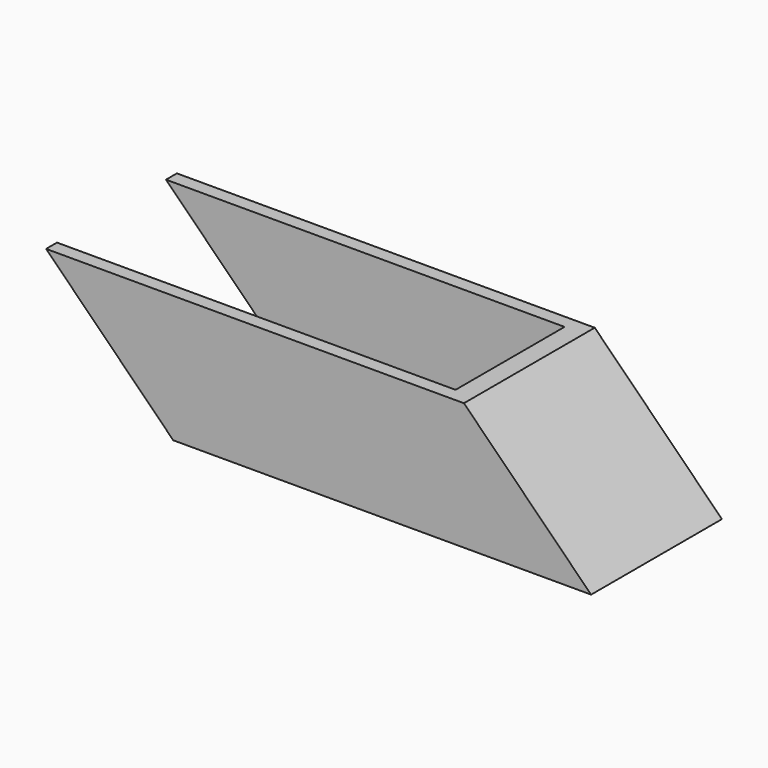
from build123d import *

# Parameters (mm, degrees)
F1_DEPTH = 18
F3_DEPTH = 15


with BuildPart() as f1:
    # F0 (on Front) → F1 (new body, symmetric)
    with BuildSketch(Plane.XZ):
        Polygon((-28, 28), (0, 0), (92, 0), (64, 28), align=None)
    extrude(amount=F1_DEPTH, both=True)

    # F2 (on Front) → F3 (cut, symmetric)
    with BuildSketch(Plane.XZ):
        Polygon((84.757359, 3), (58.344888, 29.412471), (-33.560295, 29.487692), (-6.526905, 3), align=None)
    extrude(amount=F3_DEPTH, both=True, mode=Mode.SUBTRACT)


solid = f1.part
